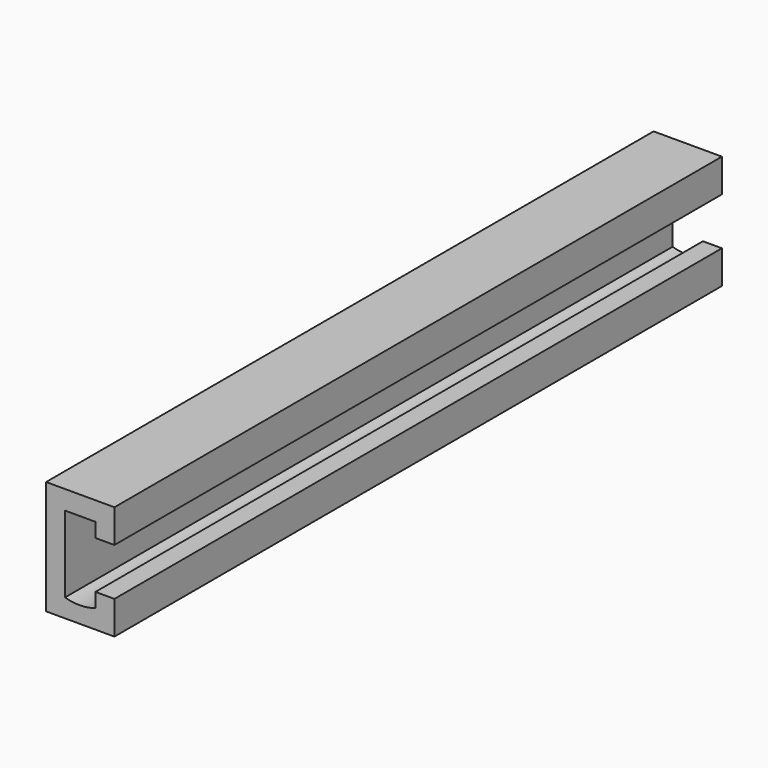
from build123d import *

# Parameters (mm, degrees)
F1_DEPTH = 100


with BuildPart() as f1:
    # F0 (on Front) → F1 (new body, symmetric)
    with BuildSketch(Plane.XZ):
        with BuildLine():
            Line((0, 6.248196), (0, 15))
            Line((0, 15), (-18, 15))
            Line((-18, 15), (-18, -15))
            Line((-18, -15), (0, -15))
            Line((0, -15), (0, -6.248196))
            Line((0, -6.248196), (-5, -6.248196))
            Line((-5, -6.248196), (-5, -10))
            ThreePointArc((-5, -10), (-8.989942, -10.696087), (-13, -10.127215))
            Line((-13, -10.127215), (-13, 10))
            Line((-13, 10), (-5, 10))
            Line((-5, 10), (-5, 6.248196))
            Line((-5, 6.248196), (0, 6.248196))
        make_face()
    extrude(amount=F1_DEPTH, both=True)


solid = f1.part
